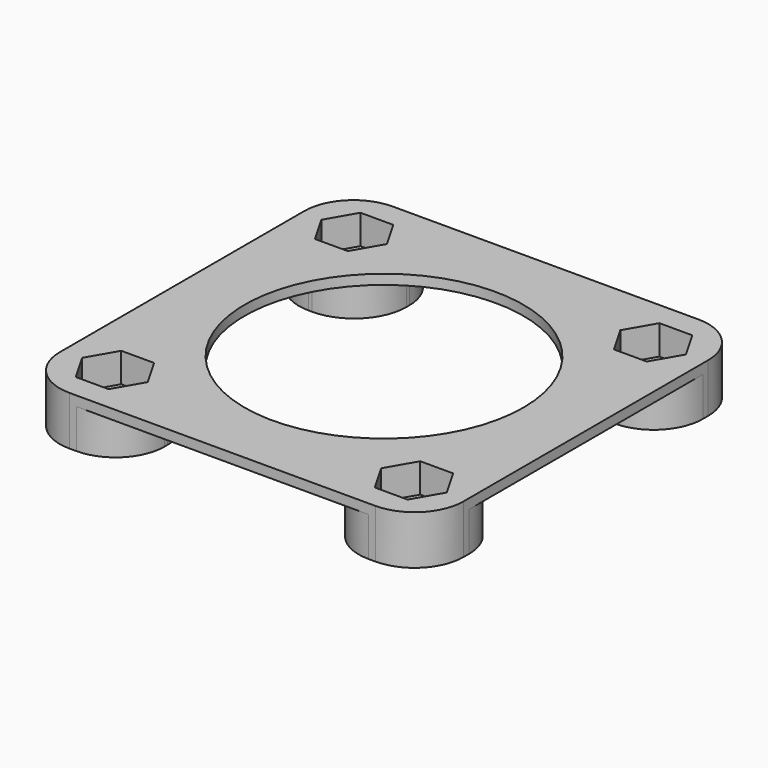
from build123d import *

# Parameters (mm, degrees)
F0_W     = 41.1972631226
F0_H     = 41.1972631226
F1_DEPTH = 5
F0_R     = 1.65
F2_DEPTH = 2
F4_DEPTH = 4
F5_R     = 14.2181252649
F6_DEPTH = 1.001
F7_R     = 5


with BuildPart() as f1:
    # F0 (on Top) → F1 (new body)
    with BuildSketch(Plane.XY):
        Rectangle(F0_W, F0_H)
        Polygon((-16.9243157806, -12.35), (-13.5756842194, -12.35), (-11.9013684387, -15.25), (-13.5756842194, -18.15), (-16.9243157806, -18.15), (-18.5986315613, -15.25), align=None, mode=Mode.SUBTRACT)
        Polygon((13.5756842194, -12.35), (16.9243157806, -12.35), (18.5986315613, -15.25), (16.9243157806, -18.15), (13.5756842194, -18.15), (11.9013684387, -15.25), align=None, mode=Mode.SUBTRACT)
        Polygon((-18.5986315613, 15.25), (-16.9243157806, 18.15), (-13.5756842194, 18.15), (-11.9013684387, 15.25), (-13.5756842194, 12.35), (-16.9243157806, 12.35), align=None, mode=Mode.SUBTRACT)
        Polygon((13.5756842194, 18.15), (16.9243157806, 18.15), (18.5986315613, 15.25), (16.9243157806, 12.35), (13.5756842194, 12.35), (11.9013684387, 15.25), align=None, mode=Mode.SUBTRACT)
    extrude(amount=F1_DEPTH)

    # F0 (on Top) → F2 (join)
    with BuildSketch(Plane.XY):
        Polygon((-13.5756842194, 18.15), (-16.9243157806, 18.15), (-18.5986315613, 15.25), (-16.9243157806, 12.35), (-13.5756842194, 12.35), (-11.9013684387, 15.25), align=None)
        with Locations((-15.25, 15.25)):
            Circle(F0_R, mode=Mode.SUBTRACT)
        Polygon((18.5986315613, 15.25), (16.9243157806, 18.15), (13.5756842194, 18.15), (11.9013684387, 15.25), (13.5756842194, 12.35), (16.9243157806, 12.35), align=None)
        with Locations((15.25, 15.25)):
            Circle(F0_R, mode=Mode.SUBTRACT)
        Polygon((18.5986315613, -15.25), (16.9243157806, -12.35), (13.5756842194, -12.35), (11.9013684387, -15.25), (13.5756842194, -18.15), (16.9243157806, -18.15), align=None)
        with Locations((15.25, -15.25)):
            Circle(F0_R, mode=Mode.SUBTRACT)
        Polygon((-11.9013684387, -15.25), (-13.5756842194, -12.35), (-16.9243157806, -12.35), (-18.5986315613, -15.25), (-16.9243157806, -18.15), (-13.5756842194, -18.15), align=None)
        with Locations((-15.25, -15.25)):
            Circle(F0_R, mode=Mode.SUBTRACT)
    extrude(amount=F2_DEPTH)

    # F3 (on face) → F4 (cut)
    with BuildSketch(Plane(origin=(0, 0, 0), x_dir=(1, 0, 0), z_dir=(0, 0, -1))):
        with BuildLine():
            Line((-20.5986315613, 9.9013684387), (-20.5986315613, -9.9013684387))
            Line((-20.5986315613, -9.9013684387), (-15.25, -9.9013684387))
            ThreePointArc((-15.25, -9.9013684387), (-11.4679463529, -11.4679463529), (-9.9013684387, -15.25))
            Line((-9.9013684387, -15.25), (-9.9013684387, -20.5986315613))
            Line((-9.9013684387, -20.5986315613), (9.9013684387, -20.5986315613))
            Line((9.9013684387, -20.5986315613), (9.9013684387, -15.25))
            ThreePointArc((9.9013684387, -15.25), (11.4679463529, -11.4679463529), (15.25, -9.9013684387))
            Line((15.25, -9.9013684387), (20.5986315613, -9.9013684387))
            Line((20.5986315613, -9.9013684387), (20.5986315613, 9.9013684387))
            Line((20.5986315613, 9.9013684387), (15.25, 9.9013684387))
            ThreePointArc((15.25, 9.9013684387), (11.4679463529, 11.4679463529), (9.9013684387, 15.25))
            Line((9.9013684387, 15.25), (9.9013684387, 20.5986315613))
            Line((9.9013684387, 20.5986315613), (-9.9013684387, 20.5986315613))
            Line((-9.9013684387, 20.5986315613), (-9.9013684387, 15.25))
            ThreePointArc((-9.9013684387, 15.25), (-11.4679463529, 11.4679463529), (-15.25, 9.9013684387))
            Line((-15.25, 9.9013684387), (-20.5986315613, 9.9013684387))
        make_face()
    extrude(amount=-F4_DEPTH, mode=Mode.SUBTRACT)

    # F5 (on face) → F6 (cut, through all)
    with BuildSketch(Plane(origin=(0, 0, 4), x_dir=(1, 0, 0), z_dir=(0, 0, -1))):
        Circle(F5_R)
    extrude(amount=-F6_DEPTH, mode=Mode.SUBTRACT)

    # F7
    f7_edges = [f1.edges().sort_by_distance(p)[0] for p in [
        (-20.598632, 20.598632, 2.5),
        (20.598632, 20.598632, 2.5),
        (20.598632, -20.598632, 2.5),
        (-20.598632, -20.598632, 2.5),
        (-20.598632, -9.901368, 2),
        (-9.901368, -20.598632, 2),
        (-20.598632, 9.901368, 2),
        (-9.901368, 20.598632, 2),
        (9.901368, 20.598632, 2),
        (20.598632, 9.901368, 2),
        (20.598632, -9.901368, 2),
        (9.901368, -20.598632, 2),
    ]]
    fillet(f7_edges, radius=F7_R)


solid = f1.part
